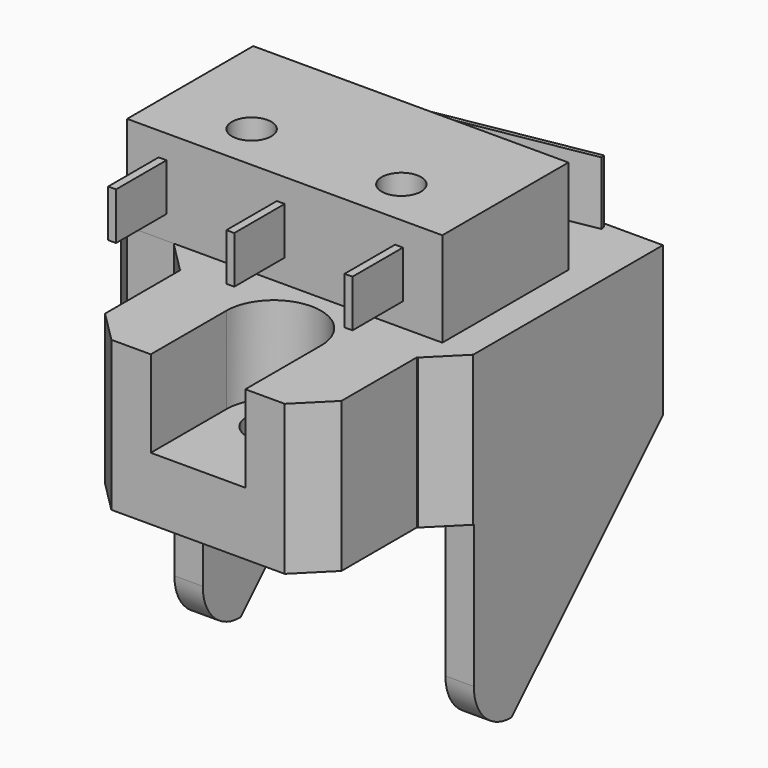
from build123d import *

# Parameters (mm, degrees)
CYLINDER001_R          = 1.25
CYLINDER001_DEPTH      = 6
CYLINDER_R             = 1.25
CYLINDER_DEPTH         = 6
BOX003_W               = 0.5
BOX003_H               = 4
BOX003_DEPTH           = 3
BOX004_W               = 0.5
BOX004_H               = 4
BOX004_DEPTH           = 3
BOX005_W               = 0.5
BOX005_H               = 4
BOX005_DEPTH           = 3
BOX006_W               = 17
BOX006_H               = 0.25
BOX006_DEPTH           = 4
BOX006_PLACEMENT_ANGLE = 10
BOX002_W               = 20
BOX002_H               = 10
BOX002_DEPTH           = 6
CONE_ROLL_ANGLE        = -90
CYLINDER003_R          = 1.7
CYLINDER003_DEPTH      = 9.5
CYLINDER002_R          = 3
CYLINDER002_DEPTH      = 5.5
BOX008_W               = 6
BOX008_H               = 6
BOX008_DEPTH           = 5.5
CYLINDER005_R          = 1.25
CYLINDER005_DEPTH      = 6
CYLINDER006_R          = 1.25
CYLINDER006_DEPTH      = 6
BOX014_W               = 2
BOX014_H               = 2
BOX014_DEPTH           = 9.5
BOX_W                  = 2
BOX_H                  = 2
BOX_DEPTH              = 9.5
BOX011_W               = 1.8
BOX011_H               = 15
BOX011_DEPTH           = 21.5
BOX010_W               = 1.8
BOX010_H               = 15
BOX010_DEPTH           = 21.5
CYLINDER004_R          = 1.4
CYLINDER004_DEPTH      = 15
CYLINDER004_ROLL_ANGLE = 90
BOX013_W               = 0.2
BOX013_H               = 15
BOX013_DEPTH           = 9.5
BOX012_W               = 0.2
BOX012_H               = 15
BOX012_DEPTH           = 9.5
BOX009_W               = 5
BOX009_H               = 15
BOX009_DEPTH           = 9.5
BOX007_W               = 15
BOX007_H               = 25
BOX007_DEPTH           = 9.5
CHAMFER_1_SIZE         = 12
CHAMFER_2_SIZE         = 4.95
CHAMFER_3_SIZE         = 2
CHAMFER_4_SIZE         = 1.95
FILLET_R               = 2.95


with BuildPart() as cylinder001:
    # Cylinder001 → Cylinder001 (new body)
    with BuildSketch(Plane(origin=(5.5, 3, 0), x_dir=(1, 0, 0), z_dir=(0, 0, 1))):
        Circle(CYLINDER001_R)
    extrude(amount=CYLINDER001_DEPTH)


with BuildPart() as cylinder:
    # Cylinder → Cylinder (new body)
    with BuildSketch(Plane(origin=(15, 3, 0), x_dir=(1, 0, 0), z_dir=(0, 0, 1))):
        Circle(CYLINDER_R)
    extrude(amount=CYLINDER_DEPTH)


with BuildPart() as cube003:
    # Box003 → Box003 (new body)
    with BuildSketch(Plane(origin=(17, -4, 1.5), x_dir=(1, 0, 0), z_dir=(0, 0, 1))):
        with Locations((0.25, 2)):
            Rectangle(BOX003_W, BOX003_H)
    extrude(amount=BOX003_DEPTH)


with BuildPart() as cube004:
    # Box004 → Box004 (new body)
    with BuildSketch(Plane(origin=(9.5, -4, 1.5), x_dir=(1, 0, 0), z_dir=(0, 0, 1))):
        with Locations((0.25, 2)):
            Rectangle(BOX004_W, BOX004_H)
    extrude(amount=BOX004_DEPTH)


with BuildPart() as cube005:
    # Box005 → Box005 (new body)
    with BuildSketch(Plane(origin=(2, -4, 1.5), x_dir=(1, 0, 0), z_dir=(0, 0, 1))):
        with Locations((0.25, 2)):
            Rectangle(BOX005_W, BOX005_H)
    extrude(amount=BOX005_DEPTH)


with BuildPart() as cube006:
    # Box006 → Box006 (new body)
    with BuildSketch(Plane.XY):
        with Locations((8.5, 0.125)):
            Rectangle(BOX006_W, BOX006_H)
    extrude(amount=BOX006_DEPTH)


with BuildPart() as cube006_1:
    # Box006 placement: moved
    add(cube006.part.moved(Location((3, 10, 1))).rotate(Axis((3, 10, 1), (0, 0, 1)), BOX006_PLACEMENT_ANGLE))


with BuildPart() as obj1:
    # Box002 → Box002 (new body)
    with BuildSketch(Plane.XY):
        with Locations((10, 5)):
            Rectangle(BOX002_W, BOX002_H)
    extrude(amount=BOX002_DEPTH)

    # Fusion: union Cube003, Cube004, Cube005, Cube006
    add(cube003.part)
    add(cube004.part)
    add(cube005.part)
    add(cube006_1.part)

    # Cut: cut Cylinder
    add(cylinder.part, mode=Mode.SUBTRACT)

    # Cut001: cut Cylinder001
    add(cylinder001.part, mode=Mode.SUBTRACT)


with BuildPart() as obj1_1:
    # Cut001 placement: moved
    add(obj1.part.moved(Location((-5, 10, 9.5))))


with BuildPart() as obj2:
    # Cone → Cone (revolve)
    with BuildSketch(Plane.XZ):
        Polygon((0, 0), (3, 5), (0, 5), align=None)
    revolve(axis=Axis((0, 0, 0), (0, 0, 1)))


with BuildPart() as obj2_1:
    # Cone roll: moved
    add(obj2.part.rotate(Axis((0, 0, 0), (1, 0, 0)), CONE_ROLL_ANGLE))


with BuildPart() as obj2_2:
    # Cone placement: moved
    add(obj2_1.part.moved(Location((7.5, 20, 9.5))))


with BuildPart() as obj3:
    # Cylinder003 → Cylinder003 (new body)
    with BuildSketch(Plane(origin=(7.5, 6, 0), x_dir=(1, 0, 0), z_dir=(0, 0, 1))):
        Circle(CYLINDER003_R)
    extrude(amount=CYLINDER003_DEPTH)


with BuildPart() as obj4:
    # Cylinder002 → Cylinder002 (new body)
    with BuildSketch(Plane(origin=(7.5, 6, 4), x_dir=(1, 0, 0), z_dir=(0, 0, 1))):
        Circle(CYLINDER002_R)
    extrude(amount=CYLINDER002_DEPTH)


with BuildPart() as obj5:
    # Box008 → Box008 (new body)
    with BuildSketch(Plane(origin=(4.5, 0, 4), x_dir=(1, 0, 0), z_dir=(0, 0, 1))):
        with Locations((3, 3)):
            Rectangle(BOX008_W, BOX008_H)
    extrude(amount=BOX008_DEPTH)

    # Fusion001: union obj4
    add(obj4.part)


with BuildPart() as cylinder005:
    # Cylinder005 → Cylinder005 (new body)
    with BuildSketch(Plane(origin=(10, 13, 4), x_dir=(1, 0, 0), z_dir=(0, 0, 1))):
        Circle(CYLINDER005_R)
    extrude(amount=CYLINDER005_DEPTH)


with BuildPart() as obj6:
    # Cylinder006 → Cylinder006 (new body)
    with BuildSketch(Plane(origin=(0.5, 13, 4), x_dir=(1, 0, 0), z_dir=(0, 0, 1))):
        Circle(CYLINDER006_R)
    extrude(amount=CYLINDER006_DEPTH)

    # Fusion003: union obj2, obj3, obj5, Cylinder005
    add(obj2_2.part)
    add(obj3.part)
    add(obj5.part)
    add(cylinder005.part)


with BuildPart() as cube007:
    # Box014 → Box014 (new body)
    with BuildSketch(Plane(origin=(15, 8, 0), x_dir=(1, 0, 0), z_dir=(0, 0, 1))):
        with Locations((1, 1)):
            Rectangle(BOX014_W, BOX014_H)
    extrude(amount=BOX014_DEPTH)


with BuildPart() as cube:
    # Box → Box (new body)
    with BuildSketch(Plane(origin=(-2, 8, 0), x_dir=(1, 0, 0), z_dir=(0, 0, 1))):
        with Locations((1, 1)):
            Rectangle(BOX_W, BOX_H)
    extrude(amount=BOX_DEPTH)


with BuildPart() as sideright:
    # Box011 → Box011 (new body)
    with BuildSketch(Plane(origin=(-2, 10, -12), x_dir=(1, 0, 0), z_dir=(0, 0, 1))):
        with Locations((0.9, 7.5)):
            Rectangle(BOX011_W, BOX011_H)
    extrude(amount=BOX011_DEPTH)


with BuildPart() as sideleft:
    # Box010 → Box010 (new body)
    with BuildSketch(Plane(origin=(15.2, 10, -12), x_dir=(1, 0, 0), z_dir=(0, 0, 1))):
        with Locations((0.9, 7.5)):
            Rectangle(BOX010_W, BOX010_H)
    extrude(amount=BOX010_DEPTH)


with BuildPart() as obj7:
    # Cylinder004 → Cylinder004 (new body)
    with BuildSketch(Plane.XY):
        Circle(CYLINDER004_R)
    extrude(amount=CYLINDER004_DEPTH)


with BuildPart() as obj7_1:
    # Cylinder004 roll: moved
    add(obj7.part.rotate(Axis((0, 0, 0), (1, 0, 0)), CYLINDER004_ROLL_ANGLE))


with BuildPart() as obj7_2:
    # Cylinder004 placement: moved
    add(obj7_1.part.moved(Location((7.5, 25, 0))))


with BuildPart() as siderightdistance:
    # Box013 → Box013 (new body)
    with BuildSketch(Plane(origin=(-0.2, 10, 0), x_dir=(1, 0, 0), z_dir=(0, 0, 1))):
        with Locations((0.1, 7.5)):
            Rectangle(BOX013_W, BOX013_H)
    extrude(amount=BOX013_DEPTH)


with BuildPart() as sideleftdistance:
    # Box012 → Box012 (new body)
    with BuildSketch(Plane(origin=(15, 10, 0), x_dir=(1, 0, 0), z_dir=(0, 0, 1))):
        with Locations((0.1, 7.5)):
            Rectangle(BOX012_W, BOX012_H)
    extrude(amount=BOX012_DEPTH)


with BuildPart() as attachright:
    # Box009 → Box009 (new body)
    with BuildSketch(Plane(origin=(-7, 10, 0), x_dir=(1, 0, 0), z_dir=(0, 0, 1))):
        with Locations((2.5, 7.5)):
            Rectangle(BOX009_W, BOX009_H)
    extrude(amount=BOX009_DEPTH)


with BuildPart() as igus_endstop:
    # Box007 → Box007 (new body)
    with BuildSketch(Plane.XY):
        with Locations((7.5, 12.5)):
            Rectangle(BOX007_W, BOX007_H)
    extrude(amount=BOX007_DEPTH)

    # Fusion002: union Cube007, Cube, SideRight, SideLeft, obj7, SideRightDistance, SideLeftDistance, AttachRight
    add(cube007.part)
    add(cube.part)
    add(sideright.part)
    add(sideleft.part)
    add(obj7_2.part)
    add(siderightdistance.part)
    add(sideleftdistance.part)
    add(attachright.part)

    # Cut002: cut obj6
    add(obj6.part, mode=Mode.SUBTRACT)

    # Chamfer 1
    chamfer_1_edges = [igus_endstop.edges().sort_by_distance(p)[0] for p in [
        (-1.1, 25, -12),
        (16.1, 25, -12),
    ]]
    chamfer(chamfer_1_edges, length=CHAMFER_1_SIZE)

    # Chamfer 2
    chamfer_2_edges = [igus_endstop.edges().sort_by_distance(p)[0] for p in [
        (-7, 25, 4.75),
    ]]
    chamfer(chamfer_2_edges, length=CHAMFER_2_SIZE)

    # Chamfer 3
    chamfer_3_edges = [igus_endstop.edges().sort_by_distance(p)[0] for p in [
        (-7, 10, 4.75),
        (0, 0, 4.75),
        (15, 0, 4.75),
    ]]
    chamfer(chamfer_3_edges, length=CHAMFER_3_SIZE)

    # Chamfer 4
    chamfer_4_edges = [igus_endstop.edges().sort_by_distance(p)[0] for p in [
        (-2, 8, 4.75),
        (17, 8, 4.75),
    ]]
    chamfer(chamfer_4_edges, length=CHAMFER_4_SIZE)

    # Fillet
    fillet_edges = [igus_endstop.edges().sort_by_distance(p)[0] for p in [
        (-1.1, 10, -12),
        (16.1, 10, -12),
    ]]
    fillet(fillet_edges, radius=FILLET_R)


solid = Compound([obj1_1.part, igus_endstop.part])
